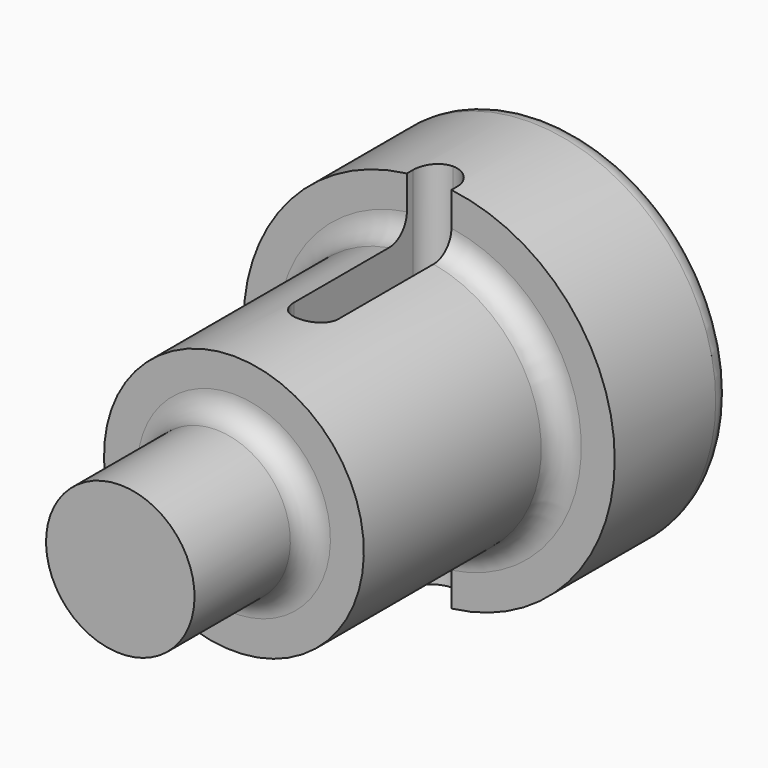
from build123d import *

# Parameters (mm, degrees)
F3_DEPTH = 32.5


with BuildPart() as f1:
    # F0 (on Right) → F1 (revolve)
    with BuildSketch(Plane.YZ):
        with BuildLine():
            Line((0, 10), (0, 0))
            Line((0, 0), (29.130435, 0))
            Line((29.130435, 0), (29.130435, 9))
            ThreePointArc((29.130435, 9), (30.009115, 11.12132), (32.130435, 12))
            Line((32.130435, 12), (72, 12))
            Line((72, 12), (72, 22))
            ThreePointArc((72, 22), (71.12132, 24.12132), (69, 25))
            Line((69, 25), (52, 25))
            Line((52, 25), (52, 20.5))
            ThreePointArc((52, 20.5), (51.12132, 18.37868), (49, 17.5))
            Line((49, 17.5), (19.130435, 17.5))
            Line((19.130435, 17.5), (19.130435, 13))
            ThreePointArc((19.130435, 13), (18.251755, 10.87868), (16.130435, 10))
            Line((16.130435, 10), (0, 10))
        make_face()
    revolve(axis=Axis((0, 14.565218, 0), (0, 1, 0)))

    # F2 (on Top) → F3 (cut, symmetric)
    with BuildSketch(Plane.XY):
        with BuildLine():
            ThreePointArc((0, 56.032258), (-2.12132, 55.153578), (-3, 53.032258))
            Line((-3, 53.032258), (-3, 33.032258))
            ThreePointArc((-3, 33.032258), (-2.12132, 30.910938), (0, 30.032258))
            ThreePointArc((0, 30.032258), (2.12132, 30.910938), (3, 33.032258))
            Line((3, 33.032258), (3, 53.032258))
            ThreePointArc((3, 53.032258), (2.12132, 55.153578), (0, 56.032258))
        make_face()
    extrude(amount=F3_DEPTH, both=True, mode=Mode.SUBTRACT)


solid = f1.part
